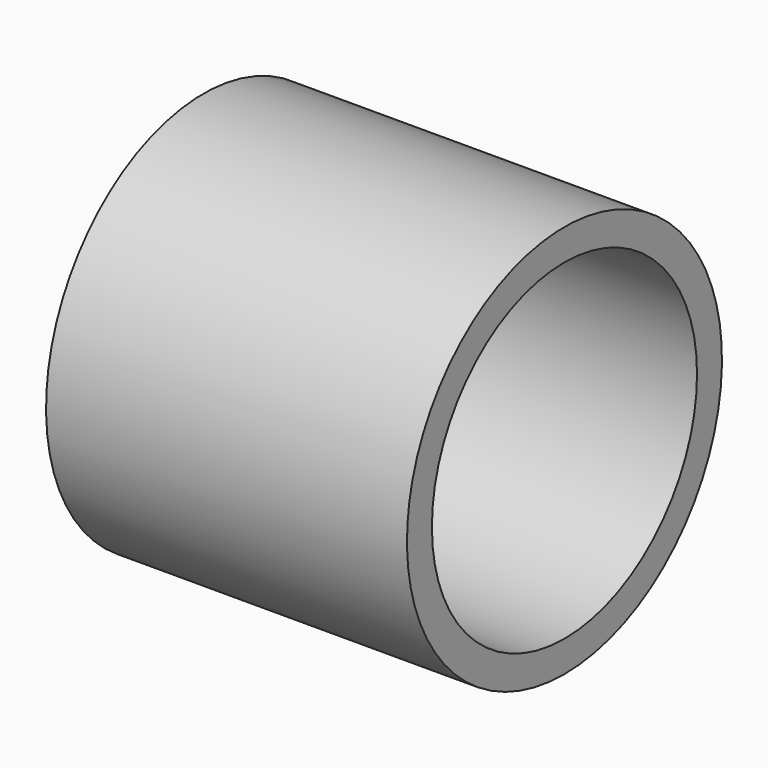
from build123d import *

# Parameters (mm, degrees)
CYLINDER_R              = 10.1
CYLINDER_DEPTH          = 20
CYLINDER_PITCH_ANGLE    = 90
CYLINDER001_R           = 12
CYLINDER001_DEPTH       = 22
CYLINDER001_PITCH_ANGLE = 90


with BuildPart() as cylinder:
    # Cylinder → Cylinder (new body)
    with BuildSketch(Plane.XY):
        Circle(CYLINDER_R)
    extrude(amount=CYLINDER_DEPTH)


with BuildPart() as cylinder_1:
    # Cylinder pitch: moved
    add(cylinder.part.rotate(Axis((0, 0, 0), (0, 1, 0)), CYLINDER_PITCH_ANGLE))


with BuildPart() as cylinder_2:
    # Cylinder placement: moved
    add(cylinder_1.part)


with BuildPart() as cut:
    # Cylinder001 → Cylinder001 (new body)
    with BuildSketch(Plane.XY):
        Circle(CYLINDER001_R)
    extrude(amount=CYLINDER001_DEPTH)


with BuildPart() as cut_1:
    # Cylinder001 pitch: moved
    add(cut.part.rotate(Axis((0, 0, 0), (0, 1, 0)), CYLINDER001_PITCH_ANGLE))


with BuildPart() as cut_2:
    # Cylinder001 placement: moved
    add(cut_1.part.moved(Location((-2, 0, 0))))

    # Cut: cut Cylinder
    add(cylinder_2.part, mode=Mode.SUBTRACT)


solid = cut_2.part
